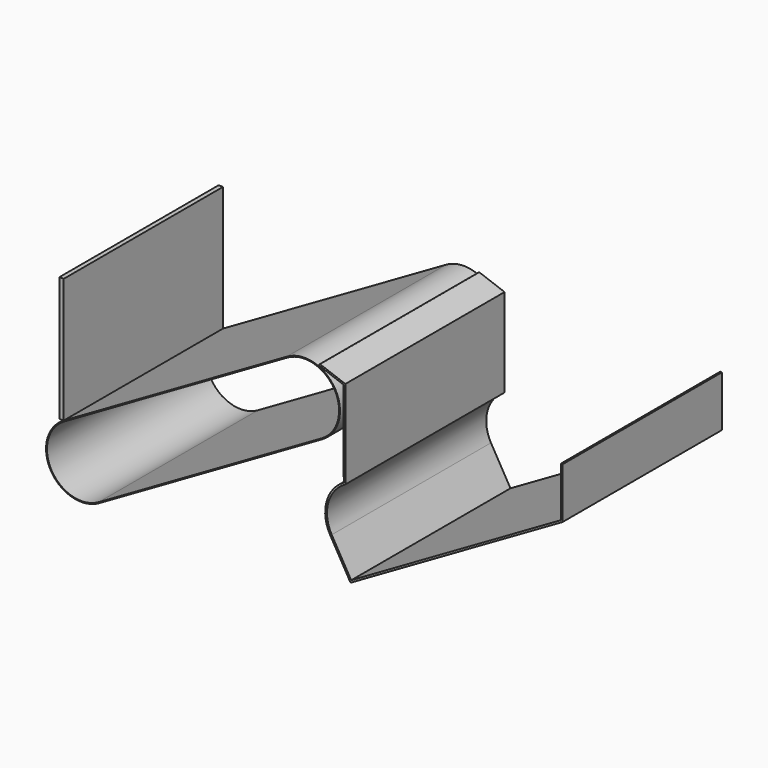
from build123d import *

# Parameters (mm, degrees)
F1_W     = 225
F1_H     = 141
F2_DEPTH = 5
F4_DEPTH = 112.5
F6_DEPTH = 112.5


with BuildPart() as f2:
    # F1 (on Right) → F2 (new body)
    with BuildSketch(Plane.YZ):
        with Locations((0, -70)):
            Rectangle(F1_W, F1_H)
    extrude(amount=-F2_DEPTH)


with BuildPart() as f4:
    # F3 (on Front) → F4 (new body, symmetric)
    with BuildSketch(Plane.XZ):
        with BuildLine():
            ThreePointArc((292.2576396401, -64.1410161514), (306.8986557915, -9.5), (252.2576396401, 5.1410161514))
            Line((252.2576396401, 5.1410161514), (0, -140.5))
            ThreePointArc((0, -140.5), (-14.6410161514, -195.1410161514), (40, -209.7820323028))
            Line((40, -209.7820323028), (292.2576396401, -64.1410161514))
        make_face()
        with BuildLine():
            Line((0.5, -141.3660254038), (252.7576396401, 4.2749907476))
            ThreePointArc((252.7576396401, 4.2749907476), (306.0326303877, -10), (291.7576396401, -63.2749907476))
            Line((291.7576396401, -63.2749907476), (39.5, -208.916006899))
            ThreePointArc((39.5, -208.916006899), (-13.7749907476, -194.6410161514), (0.5, -141.3660254038))
        make_face(mode=Mode.SUBTRACT)
    extrude(amount=F4_DEPTH, both=True)


with BuildPart() as f6:
    # F5 (on Front) → F6 (new body, symmetric)
    with BuildSketch(Plane.XZ):
        with BuildLine():
            Line((318.2706068249, -0.631335718), (290.0798282014, 9.6292685818))
            ThreePointArc((290.0798282014, 9.6292685818), (288.7981154373, 9.0315961043), (289.3957879147, 7.7498833402))
            Line((289.3957879147, 7.7498833402), (316.2706068249, -2.0317507944))
            Line((316.2706068249, -2.0317507944), (316.2706068249, -62.5876359349))
            Line((316.2706068249, -62.5876359349), (316.5372552159, -99.3226856593))
            ThreePointArc((316.5372552159, -99.3226856593), (296.9683705117, -124.825352724), (301.1641882569, -156.6957526183))
            Line((301.1641882569, -156.6957526183), (324.1641882569, -196.5329211923))
            Line((324.1641882569, -196.5329211923), (563.9560193135, -58.0890429824))
            Line((563.9560193135, -58.0890429824), (563.9560193135, -0.631335718))
            Line((563.9560193135, -0.631335718), (561.9560193135, -0.631335718))
            Line((561.9560193135, -0.631335718), (561.9560193135, -56.934342444))
            Line((561.9560193135, -56.934342444), (324.8962390645, -193.8008703848))
            Line((324.8962390645, -193.8008703848), (302.8962390645, -155.6957526183))
            ThreePointArc((302.8962390645, -155.6957526183), (298.9002221643, -125.3429908142), (317.5372552159, -101.0547364669))
            Line((317.5372552159, -101.0547364669), (318.2706068249, -100.631335718))
            Line((318.2706068249, -100.631335718), (318.2706068249, -0.631335718))
        make_face()
    extrude(amount=F6_DEPTH, both=True)


solid = Compound([f2.part, f4.part, f6.part])
